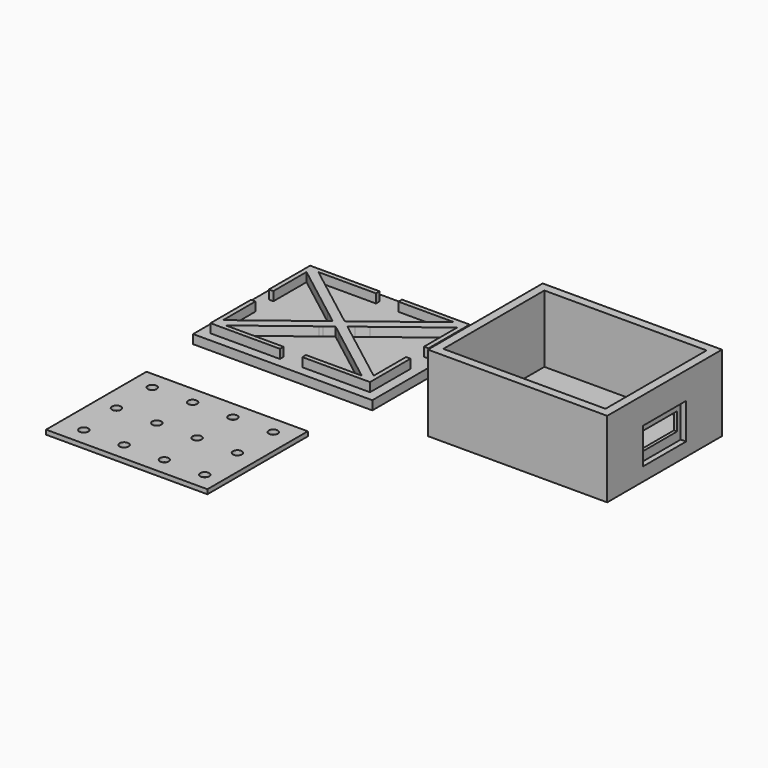
from build123d import *

# Parameters (mm, degrees)
F0_W      = 40
F0_H      = 32
F1_DEPTH  = 17
F2_W      = 36.2
F2_H      = 28.2
F3_DEPTH  = 15
F4_W      = 10
F4_H      = 4
F5_DEPTH  = 1.9
F6_W      = 40
F6_H      = 32
F7_DEPTH  = 2
F9_DEPTH  = 2
F4_W_2    = 12
F4_H_2    = 8
F10_DEPTH = 1.2
F11_W     = 36
F11_H     = 28
F11_R     = 1
F12_DEPTH = 1


with BuildPart() as f1:
    # F0 (on Top) → F1 (new body)
    with BuildSketch(Plane.XY):
        with Locations((20, 16)):
            Rectangle(F0_W, F0_H)
        with Locations((20, 16)):
            Rectangle(F0_W, F0_H)
    extrude(amount=F1_DEPTH)

    # F2 (on face) → F3 (cut)
    with BuildSketch(Plane.XY.offset(17)):
        with Locations((20, 16)):
            Rectangle(F2_W, F2_H)
    extrude(amount=-F3_DEPTH, mode=Mode.SUBTRACT)

    # F4 (on face) → F5 (cut, through all)
    with BuildSketch(Plane.YZ.offset(40)):
        with Locations((16, 7)):
            Rectangle(F4_W, F4_H)
    extrude(amount=-F5_DEPTH, mode=Mode.SUBTRACT)

    # F4 (on face) → F10 (cut)
    with BuildSketch(Plane.YZ.offset(40)):
        with Locations((16, 7)):
            Rectangle(F4_W_2, F4_H_2)
        with Locations((16, 7)):
            Rectangle(F4_W, F4_H, mode=Mode.SUBTRACT)
    extrude(amount=-F10_DEPTH, mode=Mode.SUBTRACT)


with BuildPart() as f7:
    # F6 (on Top) → F7 (new body)
    with BuildSketch(Plane.XY):
        with Locations((-33.6390890081, 17.5289876275)):
            Rectangle(F6_W, F6_H)
    extrude(amount=F7_DEPTH)

    # F8 (on face) → F9 (join)
    with BuildSketch(Plane.XY.offset(2)):
        Polygon((-35.9390890081, 31.4289876275), (-51.4390890081, 31.4289876275), (-51.4390890081, 19.9289876275), (-50.4390890081, 19.9289876275), (-50.4390890081, 29.1681924055), (-50.4390890081, 30.4289876275), (-48.7971231376, 30.4289876275), (-35.9390890081, 30.4289876275), align=None)
        Polygon((-15.8390890081, 31.4289876275), (-30.9390890081, 31.4289876275), (-30.9390890081, 30.4289876275), (-18.4810548786, 30.4289876275), (-16.8390890081, 30.4289876275), (-16.8390890081, 29.1681924055), (-16.8390890081, 19.9289876275), (-15.8390890081, 19.9289876275), align=None)
        Polygon((-50.4390890081, 30.4289876275), (-50.4390890081, 29.1681924055), (-38.406636274, 19.9289876275), (-36.7646704035, 19.9289876275), align=None)
        Polygon((-35.9390890081, 20.5558542781), (-48.7971231376, 30.4289876275), (-50.4390890081, 30.4289876275), (-36.7646704035, 19.9289876275), (-35.9390890081, 19.9289876275), align=None)
        Polygon((-32.8181060728, 18.1593852385), (-33.6390890081, 18.7897828495), (-34.4600719434, 18.1593852385), (-33.6390890081, 17.5289876275), align=None)
        Polygon((-31.9971231376, 17.5289876275), (-32.8181060728, 18.1593852385), (-33.6390890081, 17.5289876275), (-32.8181060728, 16.8985900165), align=None)
        Polygon((-34.4600719434, 18.1593852385), (-35.2810548786, 17.5289876275), (-34.4600719434, 16.8985900165), (-33.6390890081, 17.5289876275), align=None)
        Polygon((-33.6390890081, 17.5289876275), (-34.4600719434, 16.8985900165), (-33.6390890081, 16.2681924055), (-32.8181060728, 16.8985900165), align=None)
        Polygon((-30.9390890081, 18.3414066912), (-30.9390890081, 19.6022019132), (-32.8181060728, 18.1593852385), (-31.9971231376, 17.5289876275), align=None)
        Polygon((-30.9390890081, 19.9289876275), (-32.1554734833, 19.9289876275), (-33.6390890081, 18.7897828495), (-32.8181060728, 18.1593852385), (-30.9390890081, 19.6022019132), align=None)
        Polygon((-35.2810548786, 17.5289876275), (-35.9390890081, 17.0237114209), (-35.9390890081, 15.7629161989), (-34.4600719434, 16.8985900165), align=None)
        Polygon((-34.4600719434, 16.8985900165), (-35.9390890081, 15.7629161989), (-35.9390890081, 14.9289876275), (-35.3831696492, 14.9289876275), (-33.6390890081, 16.2681924055), align=None)
        Polygon((-30.9390890081, 14.1949781198), (-18.4810548786, 4.6289876275), (-16.8390890081, 4.6289876275), (-30.2530424965, 14.9289876275), (-30.9390890081, 14.9289876275), align=None)
        Polygon((-16.8390890081, 4.6289876275), (-16.8390890081, 5.8897828495), (-28.611076626, 14.9289876275), (-30.2530424965, 14.9289876275), align=None)
        Polygon((-35.9390890081, 17.0237114209), (-38.6671013903, 14.9289876275), (-37.0251355197, 14.9289876275), (-35.9390890081, 15.7629161989), align=None)
        Polygon((-36.7646704035, 19.9289876275), (-38.406636274, 19.9289876275), (-35.9390890081, 18.034263834), (-35.9390890081, 19.295059056), align=None)
        Polygon((-35.9390890081, 19.295059056), (-35.9390890081, 18.034263834), (-35.2810548786, 17.5289876275), (-34.4600719434, 18.1593852385), align=None)
        Polygon((-33.6390890081, 18.7897828495), (-35.1227045329, 19.9289876275), (-35.9390890081, 19.9289876275), (-35.9390890081, 19.295059056), (-34.4600719434, 18.1593852385), align=None)
        Polygon((-35.1227045329, 19.9289876275), (-35.9390890081, 20.5558542781), (-35.9390890081, 19.9289876275), align=None)
        Polygon((-35.9390890081, 15.7629161989), (-37.0251355197, 14.9289876275), (-35.9390890081, 14.9289876275), align=None)
        Polygon((-32.8181060728, 16.8985900165), (-33.6390890081, 16.2681924055), (-31.895008367, 14.9289876275), (-30.9390890081, 14.9289876275), (-30.9390890081, 15.4557733418), align=None)
        Polygon((-30.9390890081, 16.7165685638), (-31.9971231376, 17.5289876275), (-32.8181060728, 16.8985900165), (-30.9390890081, 15.4557733418), align=None)
        Polygon((-30.2530424965, 14.9289876275), (-28.611076626, 14.9289876275), (-30.9390890081, 16.7165685638), (-30.9390890081, 15.4557733418), align=None)
        Polygon((-30.9390890081, 14.9289876275), (-30.2530424965, 14.9289876275), (-30.9390890081, 15.4557733418), align=None)
        Polygon((-31.895008367, 14.9289876275), (-30.9390890081, 14.1949781198), (-30.9390890081, 14.9289876275), align=None)
        Polygon((-35.9390890081, 19.295059056), (-35.9390890081, 19.9289876275), (-36.7646704035, 19.9289876275), align=None)
        Polygon((-30.9390890081, 18.3414066912), (-28.8715417422, 19.9289876275), (-30.5135076128, 19.9289876275), (-30.9390890081, 19.6022019132), align=None)
        Polygon((-30.5135076128, 19.9289876275), (-30.9390890081, 19.9289876275), (-30.9390890081, 19.6022019132), align=None)
        Polygon((-30.9390890081, 19.9289876275), (-30.9390890081, 20.8629971352), (-32.1554734833, 19.9289876275), align=None)
        Polygon((-16.8390890081, 30.4289876275), (-18.4810548786, 30.4289876275), (-30.9390890081, 20.8629971352), (-30.9390890081, 19.9289876275), (-30.5135076128, 19.9289876275), align=None)
        Polygon((-16.8390890081, 29.1681924055), (-16.8390890081, 30.4289876275), (-30.5135076128, 19.9289876275), (-28.8715417422, 19.9289876275), align=None)
        Polygon((-37.0251355197, 14.9289876275), (-50.4390890081, 4.6289876275), (-48.7971231376, 4.6289876275), (-35.9390890081, 14.5021209769), (-35.9390890081, 14.9289876275), align=None)
        Polygon((-38.6671013903, 14.9289876275), (-50.4390890081, 5.8897828495), (-50.4390890081, 4.6289876275), (-37.0251355197, 14.9289876275), align=None)
        Polygon((-50.4390890081, 14.9289876275), (-51.4390890081, 14.9289876275), (-51.4390890081, 3.6289876275), (-35.9390890081, 3.6289876275), (-35.9390890081, 4.6289876275), (-48.7971231376, 4.6289876275), (-50.4390890081, 4.6289876275), (-50.4390890081, 5.8897828495), align=None)
        Polygon((-15.8390890081, 3.6289876275), (-15.8390890081, 14.9289876275), (-16.8390890081, 14.9289876275), (-16.8390890081, 5.8897828495), (-16.8390890081, 4.6289876275), (-18.4810548786, 4.6289876275), (-30.9390890081, 4.6289876275), (-30.9390890081, 3.6289876275), align=None)
        Polygon((-35.9390890081, 14.9289876275), (-35.9390890081, 14.5021209769), (-35.3831696492, 14.9289876275), align=None)
    extrude(amount=F9_DEPTH)


with BuildPart() as f12:
    # F11 (on Top) → F12 (new body)
    with BuildSketch(Plane.XY):
        with Locations((-34.3054247797, -27.1466679312)):
            Rectangle(F11_W, F11_H)
        with Locations((-47.0955419362, -37.1466679312)):
            Circle(F11_R, mode=Mode.SUBTRACT)
        with Locations((-38.0955419362, -37.1466679312)):
            Circle(F11_R, mode=Mode.SUBTRACT)
        with Locations((-29.0955419362, -37.1466679312)):
            Circle(F11_R, mode=Mode.SUBTRACT)
        with Locations((-20.0955419362, -37.1466679312)):
            Circle(F11_R, mode=Mode.SUBTRACT)
        with Locations((-47.8054247797, -27.1466679312)):
            Circle(F11_R, mode=Mode.SUBTRACT)
        with Locations((-38.8054247797, -27.1466679312)):
            Circle(F11_R, mode=Mode.SUBTRACT)
        with Locations((-47.8054247797, -17.1466679312)):
            Circle(F11_R, mode=Mode.SUBTRACT)
        with Locations((-38.8054247797, -17.1466679312)):
            Circle(F11_R, mode=Mode.SUBTRACT)
        with Locations((-29.8054247797, -27.1466679312)):
            Circle(F11_R, mode=Mode.SUBTRACT)
        with Locations((-20.8054247797, -27.1466679312)):
            Circle(F11_R, mode=Mode.SUBTRACT)
        with Locations((-29.8054247797, -17.1466679312)):
            Circle(F11_R, mode=Mode.SUBTRACT)
        with Locations((-20.8054247797, -17.1466679312)):
            Circle(F11_R, mode=Mode.SUBTRACT)
    extrude(amount=F12_DEPTH)


solid = Compound([f1.part, f7.part, f12.part])
